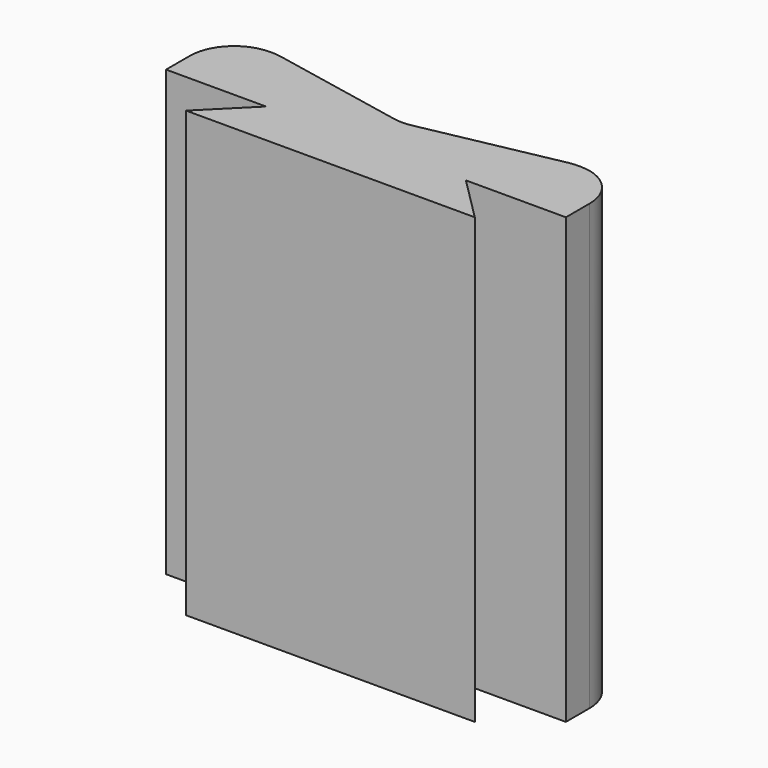
from build123d import *

# Parameters (mm, degrees)
F1_DEPTH = 30
F2_R     = 3


with BuildPart() as f1:
    # F0 (on Top) → F1 (new body)
    with BuildSketch(Plane.XY):
        Polygon((-6.75, 0), (0, 0), (0, 3), (-10, 5), (-13.5, 5), (-13.5, 0), align=None)
        Polygon((0, -3), (0, 0), (-6.75, 0), (-9.75, -3), align=None)
        Polygon((6.75, 0), (0, 0), (0, -3), (9.75, -3), align=None)
        Polygon((0, 3), (0, 0), (6.75, 0), (13.5, 0), (13.5, 5), (10, 5), align=None)
    extrude(amount=F1_DEPTH)

    # F2
    f2_edges = [f1.edges().sort_by_distance(p)[0] for p in [
        (-13.5, 5, 15),
        (-10, 5, 15),
        (13.5, 5, 15),
        (10, 5, 15),
        (0, 3, 15),
    ]]
    fillet(f2_edges, radius=F2_R)


solid = f1.part
